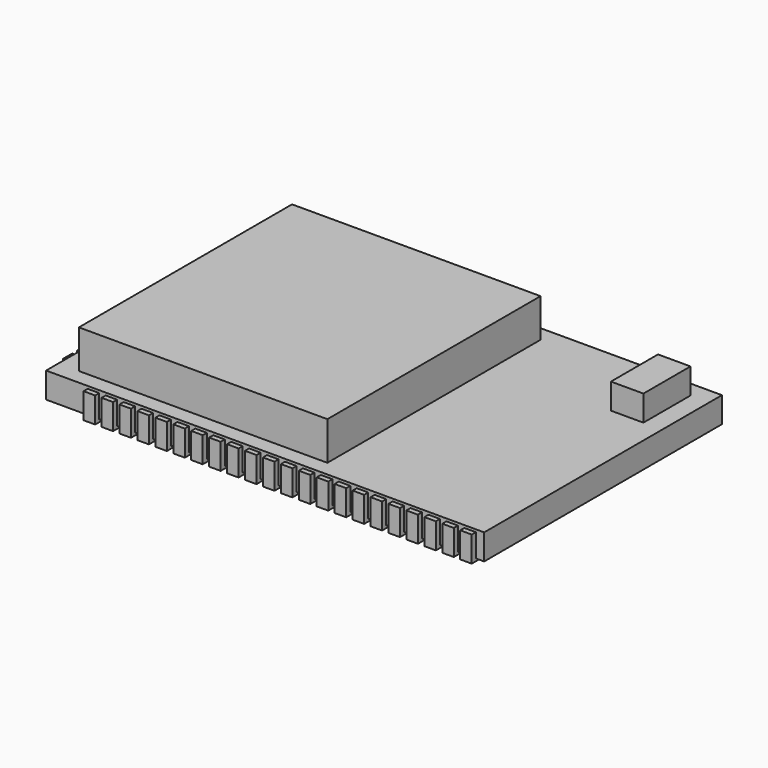
from build123d import *

# Parameters (mm, degrees)
F0_W          = 17.1
F0_H          = 11.6
F0_W_2        = 9.7
F0_H_2        = 10.4
F0_W_3        = 1.268132
F0_H_3        = 2.29688
F1_DEPTH      = 1
F2_DEPTH      = 1.5
F3_DEPTH      = 1
F4_W          = 0.45
F4_H          = 1.05
F4_W_2        = 1.05
F4_H_2        = 0.45
F5_DEPTH      = 0.9
F6_DEPTH      = 0.1
F6_DEPTH_BACK = 0.9


with BuildPart() as f1:
    # F0 (on Top) → F1 (new body)
    with BuildSketch(Plane.XY):
        Rectangle(F0_W, F0_H)
        with Locations((-2.9, 0)):
            Rectangle(F0_W_2, F0_H_2, mode=Mode.SUBTRACT)
        with Locations((7.182394, 4.034802)):
            Rectangle(F0_W_3, F0_H_3, mode=Mode.SUBTRACT)
        with Locations((-2.9, 0)):
            Rectangle(F0_W_2, F0_H_2)
        with Locations((7.182394, 4.034802)):
            Rectangle(F0_W_3, F0_H_3)
    extrude(amount=-F1_DEPTH)

    # F4 (on face) → F5 (cut)
    with BuildSketch(Plane(origin=(0, 0, -1), x_dir=(1, 0, 0), z_dir=(0, 0, -1))):
        with Locations((8, 5.475)):
            Rectangle(F4_W, F4_H)
        with Locations((7.3, 5.475)):
            Rectangle(F4_W, F4_H)
        with Locations((6.6, 5.475)):
            Rectangle(F4_W, F4_H)
        with Locations((5.9, 5.475)):
            Rectangle(F4_W, F4_H)
        with Locations((5.2, 5.475)):
            Rectangle(F4_W, F4_H)
        with Locations((4.5, 5.475)):
            Rectangle(F4_W, F4_H)
        with Locations((3.8, 5.475)):
            Rectangle(F4_W, F4_H)
        with Locations((3.1, 5.475)):
            Rectangle(F4_W, F4_H)
        with Locations((2.4, 5.475)):
            Rectangle(F4_W, F4_H)
        with Locations((1.7, 5.475)):
            Rectangle(F4_W, F4_H)
        with Locations((1, 5.475)):
            Rectangle(F4_W, F4_H)
        with Locations((0.3, 5.475)):
            Rectangle(F4_W, F4_H)
        with Locations((-0.4, 5.475)):
            Rectangle(F4_W, F4_H)
        with Locations((-1.1, 5.475)):
            Rectangle(F4_W, F4_H)
        with Locations((-1.8, 5.475)):
            Rectangle(F4_W, F4_H)
        with Locations((-2.5, 5.475)):
            Rectangle(F4_W, F4_H)
        with Locations((-3.2, 5.475)):
            Rectangle(F4_W, F4_H)
        with Locations((-3.9, 5.475)):
            Rectangle(F4_W, F4_H)
        with Locations((-4.6, 5.475)):
            Rectangle(F4_W, F4_H)
        with Locations((-5.3, 5.475)):
            Rectangle(F4_W, F4_H)
        with Locations((-6, 5.475)):
            Rectangle(F4_W, F4_H)
        with Locations((-6.7, 5.475)):
            Rectangle(F4_W, F4_H)
        with Locations((-8.225, 4.5)):
            Rectangle(F4_W_2, F4_H_2)
        with Locations((-8.22885, 3.800011)):
            Rectangle(F4_W_2, F4_H_2)
        with Locations((-8.232699, 3.100021)):
            Rectangle(F4_W_2, F4_H_2)
        with Locations((-8.236549, 2.400032)):
            Rectangle(F4_W_2, F4_H_2)
        with Locations((-8.240398, 1.700042)):
            Rectangle(F4_W_2, F4_H_2)
        with Locations((-8.244248, 1.000053)):
            Rectangle(F4_W_2, F4_H_2)
        with Locations((-8.248098, 0.300064)):
            Rectangle(F4_W_2, F4_H_2)
        with Locations((-8.251947, -0.399926)):
            Rectangle(F4_W_2, F4_H_2)
        with Locations((-8.255797, -1.099915)):
            Rectangle(F4_W_2, F4_H_2)
        with Locations((-8.259647, -1.799905)):
            Rectangle(F4_W_2, F4_H_2)
        with Locations((-8.263496, -2.499894)):
            Rectangle(F4_W_2, F4_H_2)
        with Locations((-8.267346, -3.199884)):
            Rectangle(F4_W_2, F4_H_2)
        with Locations((-8.271195, -3.899873)):
            Rectangle(F4_W_2, F4_H_2)
        with Locations((-8.275045, -4.599862)):
            Rectangle(F4_W_2, F4_H_2)
        with Locations((-0.4, -5.475)):
            Rectangle(F4_W, F4_H)
        with Locations((-6, -5.475)):
            Rectangle(F4_W, F4_H)
        with Locations((-1.8, -5.475)):
            Rectangle(F4_W, F4_H)
        with Locations((-4.6, -5.475)):
            Rectangle(F4_W, F4_H)
        with Locations((-3.2, -5.475)):
            Rectangle(F4_W, F4_H)
        with Locations((-2.5, -5.475)):
            Rectangle(F4_W, F4_H)
        with Locations((0.3, -5.475)):
            Rectangle(F4_W, F4_H)
        with Locations((-5.3, -5.475)):
            Rectangle(F4_W, F4_H)
        with Locations((-1.1, -5.475)):
            Rectangle(F4_W, F4_H)
        with Locations((-6.7, -5.475)):
            Rectangle(F4_W, F4_H)
        with Locations((-3.9, -5.475)):
            Rectangle(F4_W, F4_H)
    extrude(amount=-F5_DEPTH, mode=Mode.SUBTRACT)


with BuildPart() as f2:
    # F0 (on Top) → F2 (new body)
    with BuildSketch(Plane.XY):
        with Locations((-2.9, 0)):
            Rectangle(F0_W_2, F0_H_2)
    extrude(amount=F2_DEPTH)


with BuildPart() as f3:
    # F0 (on Top) → F3 (new body)
    with BuildSketch(Plane.XY):
        with Locations((7.182394, 4.034802)):
            Rectangle(F0_W_3, F0_H_3)
    extrude(amount=F3_DEPTH)


with BuildPart() as f6:
    # F4 (on face) → F6 (new body, two sides)
    with BuildSketch(Plane(origin=(0, 0, -1), x_dir=(1, 0, 0), z_dir=(0, 0, -1))) as f6_sk:
        with Locations((8, 5.475)):
            Rectangle(F4_W, F4_H)
        with Locations((7.3, 5.475)):
            Rectangle(F4_W, F4_H)
        with Locations((6.6, 5.475)):
            Rectangle(F4_W, F4_H)
        with Locations((5.9, 5.475)):
            Rectangle(F4_W, F4_H)
        with Locations((5.2, 5.475)):
            Rectangle(F4_W, F4_H)
        with Locations((4.5, 5.475)):
            Rectangle(F4_W, F4_H)
        with Locations((3.8, 5.475)):
            Rectangle(F4_W, F4_H)
        with Locations((3.1, 5.475)):
            Rectangle(F4_W, F4_H)
        with Locations((2.4, 5.475)):
            Rectangle(F4_W, F4_H)
        with Locations((1.7, 5.475)):
            Rectangle(F4_W, F4_H)
        with Locations((1, 5.475)):
            Rectangle(F4_W, F4_H)
        with Locations((0.3, 5.475)):
            Rectangle(F4_W, F4_H)
        with Locations((-0.4, 5.475)):
            Rectangle(F4_W, F4_H)
        with Locations((-1.1, 5.475)):
            Rectangle(F4_W, F4_H)
        with Locations((-1.8, 5.475)):
            Rectangle(F4_W, F4_H)
        with Locations((-2.5, 5.475)):
            Rectangle(F4_W, F4_H)
        with Locations((-3.2, 5.475)):
            Rectangle(F4_W, F4_H)
        with Locations((-3.9, 5.475)):
            Rectangle(F4_W, F4_H)
        with Locations((-4.6, 5.475)):
            Rectangle(F4_W, F4_H)
        with Locations((-5.3, 5.475)):
            Rectangle(F4_W, F4_H)
        with Locations((-6, 5.475)):
            Rectangle(F4_W, F4_H)
        with Locations((-6.7, 5.475)):
            Rectangle(F4_W, F4_H)
        with Locations((-8.225, 4.5)):
            Rectangle(F4_W_2, F4_H_2)
        with Locations((-8.22885, 3.800011)):
            Rectangle(F4_W_2, F4_H_2)
        with Locations((-8.232699, 3.100021)):
            Rectangle(F4_W_2, F4_H_2)
        with Locations((-8.236549, 2.400032)):
            Rectangle(F4_W_2, F4_H_2)
        with Locations((-8.240398, 1.700042)):
            Rectangle(F4_W_2, F4_H_2)
        with Locations((-8.244248, 1.000053)):
            Rectangle(F4_W_2, F4_H_2)
        with Locations((-8.248098, 0.300064)):
            Rectangle(F4_W_2, F4_H_2)
        with Locations((-8.251947, -0.399926)):
            Rectangle(F4_W_2, F4_H_2)
        with Locations((-8.255797, -1.099915)):
            Rectangle(F4_W_2, F4_H_2)
        with Locations((-8.259647, -1.799905)):
            Rectangle(F4_W_2, F4_H_2)
        with Locations((-8.263496, -2.499894)):
            Rectangle(F4_W_2, F4_H_2)
        with Locations((-8.267346, -3.199884)):
            Rectangle(F4_W_2, F4_H_2)
        with Locations((-8.271195, -3.899873)):
            Rectangle(F4_W_2, F4_H_2)
        with Locations((-8.275045, -4.599862)):
            Rectangle(F4_W_2, F4_H_2)
        with Locations((-0.4, -5.475)):
            Rectangle(F4_W, F4_H)
        with Locations((-6, -5.475)):
            Rectangle(F4_W, F4_H)
        with Locations((-1.8, -5.475)):
            Rectangle(F4_W, F4_H)
        with Locations((-4.6, -5.475)):
            Rectangle(F4_W, F4_H)
        with Locations((-3.2, -5.475)):
            Rectangle(F4_W, F4_H)
        with Locations((-2.5, -5.475)):
            Rectangle(F4_W, F4_H)
        with Locations((0.3, -5.475)):
            Rectangle(F4_W, F4_H)
        with Locations((-5.3, -5.475)):
            Rectangle(F4_W, F4_H)
        with Locations((-1.1, -5.475)):
            Rectangle(F4_W, F4_H)
        with Locations((-6.7, -5.475)):
            Rectangle(F4_W, F4_H)
        with Locations((-3.9, -5.475)):
            Rectangle(F4_W, F4_H)
    extrude(amount=F6_DEPTH)
    extrude(f6_sk.sketch, amount=-F6_DEPTH_BACK)


solid = Compound([f1.part, f2.part, f3.part, f6.part])
